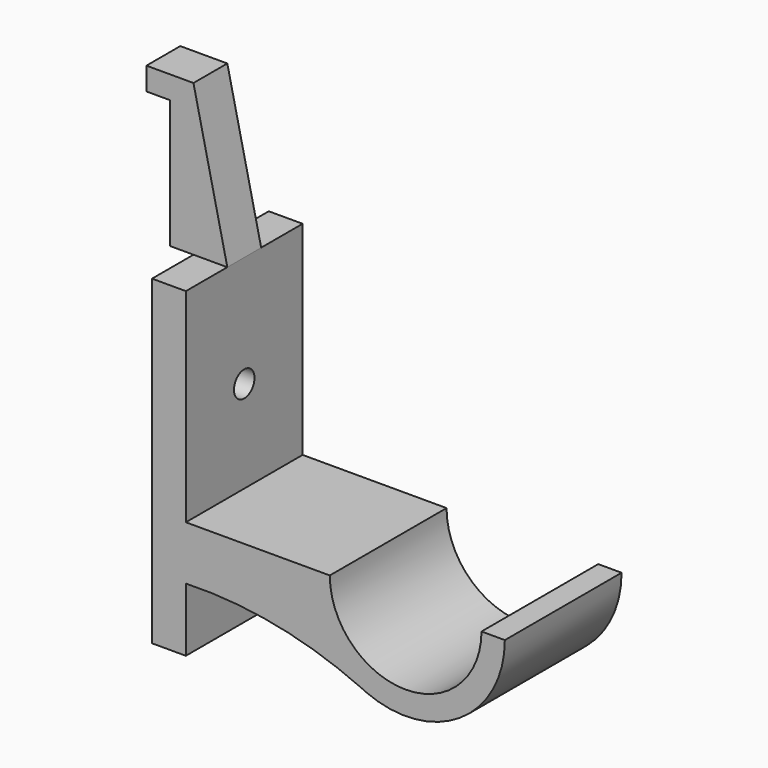
from build123d import *

# Parameters (mm, degrees)
F0_W     = 5.7972974144
F0_H     = 5.9
F0_H_2   = 19.1
F1_DEPTH = 12.5
F3_D     = 4.4
F3_DEPTH = 14.1
F3_TIP   = 1.3218933619
F4_DEPTH = 3.625


with BuildPart() as f1:
    # F0 (on Front) → F1 (new body, symmetric)
    with BuildSketch(Plane.XZ):
        with Locations((-4.0329019539, -17.188550967)):
            Rectangle(F0_W, F0_H)
        with BuildLine():
            ThreePointArc((29.8217841377, -15.618166969), (29.3859073845, -15.4145662467), (28.9485841576, -15.214091327))
            ThreePointArc((28.9485841576, -15.214091327), (29.3823237659, -15.4223103801), (29.8217841377, -15.618166969))
        make_face()
        with Locations((-4.0329019539, 25.311449033)):
            Rectangle(F0_W, F0_H_2)
        with BuildLine():
            Line((19.5255004201, 0), (-1.1342532467, 0))
            Line((-1.1342532467, 0), (-1.1342532467, -9.2409374192))
            ThreePointArc((-1.1342532467, -9.2409374192), (14.2525091884, -10.4882457176), (28.9485841576, -15.214091327))
            ThreePointArc((28.9485841576, -15.214091327), (22.072081358, -8.9479478378), (19.5255004201, 0))
        make_face()
        with BuildLine():
            Line((23.5255004201, 0), (19.5255004201, 0))
            ThreePointArc((19.5255004201, 0), (22.072081358, -8.9479478378), (28.9485841576, -15.214091327))
            ThreePointArc((28.9485841576, -15.214091327), (29.3859073845, -15.4145662467), (29.8217841377, -15.618166969))
            ThreePointArc((29.8217841377, -15.618166969), (45.8723890611, -14.1878546071), (53.5125784245, 0))
            Line((53.5125784245, 0), (49.5125784245, 0))
            ThreePointArc((49.5125784245, 0), (36.5190394223, -12.9935390022), (23.5255004201, 0))
        make_face()
        Polygon((-1.1342532467, 15.761449033), (-6.9315506611, 15.761449033), (-6.9315506611, -14.238550967), (-1.1342532467, -14.238550967), (-1.1342532467, -9.2409374192), (-1.1342532467, 0), align=None)
    extrude(amount=F1_DEPTH, both=True)

    # F3
    with Locations(Plane(origin=(-6.9315506611, 0, 0), x_dir=(0, -1, 0), z_dir=(-1, 0, 0))):
        with Locations((0, 15.79714939), (0, -14.253873378)):
            Hole(F3_D / 2, depth=F3_DEPTH)
            with Locations((0, 0, -(F3_DEPTH + F3_TIP / 2))):  # 118° drill point
                Cone(0, F3_D / 2, F3_TIP, mode=Mode.SUBTRACT)

    # F0 (on Front) → F4 (join, symmetric)
    with BuildSketch(Plane.XZ):
        Polygon((-10.9315506611, 34.861449033), (-6.9315506611, 34.861449033), (-1.1342532467, 34.861449033), (-6.9315506611, 60.7583903916), (-14.991494827, 60.7583903916), (-14.991494827, 56.861449033), (-10.9315506611, 56.861449033), align=None)
    extrude(amount=F4_DEPTH, both=True)


solid = f1.part
